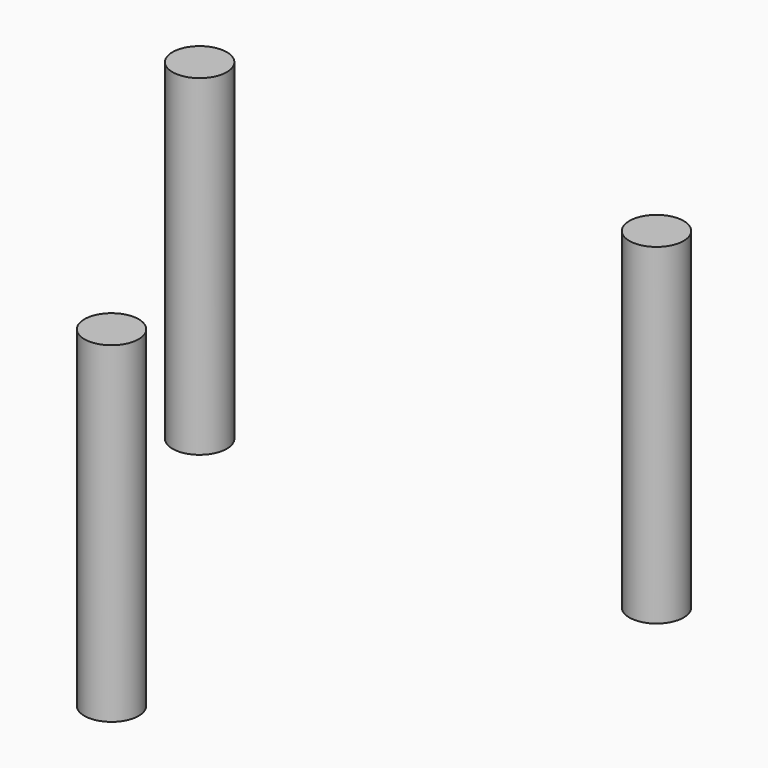
from build123d import *

# Parameters (mm, degrees)
CYLINDER025_R               = 0.9
CYLINDER025_DEPTH           = 11
CYLINDER025_PLACEMENT_ANGLE = 120
CYLINDER026_R               = 0.9
CYLINDER026_DEPTH           = 11
CYLINDER026_PLACEMENT_ANGLE = 240
CYLINDER024_R               = 0.9
CYLINDER024_DEPTH           = 11


with BuildPart() as cylinder025:
    # Cylinder025 → Cylinder025 (new body)
    with BuildSketch(Plane.XY):
        Circle(CYLINDER025_R)
    extrude(amount=CYLINDER025_DEPTH)


with BuildPart() as cylinder025_1:
    # Cylinder025 placement: moved
    add(cylinder025.part.moved(Location((7.577722, 4.375, -2.5))).rotate(Axis((7.577722, 4.375, -2.5), (0, 0, 1)), CYLINDER025_PLACEMENT_ANGLE))


with BuildPart() as cylinder026:
    # Cylinder026 → Cylinder026 (new body)
    with BuildSketch(Plane.XY):
        Circle(CYLINDER026_R)
    extrude(amount=CYLINDER026_DEPTH)


with BuildPart() as cylinder026_1:
    # Cylinder026 placement: moved
    add(cylinder026.part.moved(Location((-7.577722, 4.375, -2.5))).rotate(Axis((-7.577722, 4.375, -2.5), (0, 0, 1)), CYLINDER026_PLACEMENT_ANGLE))


with BuildPart() as fusion007:
    # Cylinder024 → Cylinder024 (new body)
    with BuildSketch(Plane(origin=(0, -8.75, -2.5), x_dir=(1, 0, 0), z_dir=(0, 0, 1))):
        Circle(CYLINDER024_R)
    extrude(amount=CYLINDER024_DEPTH)

    # Fusion007: union Cylinder025, Cylinder026
    add(cylinder025_1.part)
    add(cylinder026_1.part)


with BuildPart() as fusion007_1:
    # Fusion007 placement: moved
    add(fusion007.part.moved(Location((0, 0, 0.5))))


solid = fusion007_1.part
